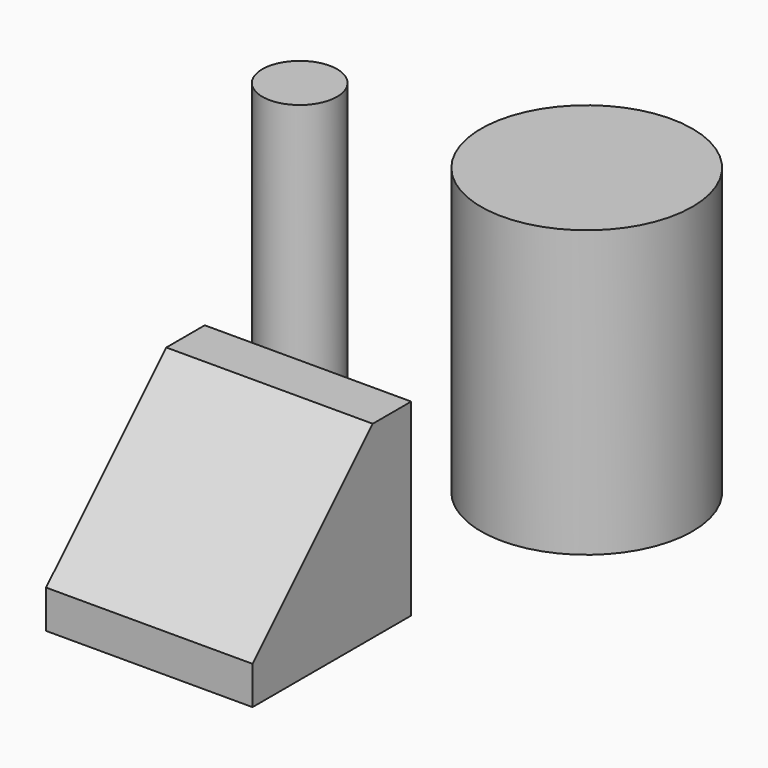
from build123d import *

# Parameters (mm, degrees)
F0_W          = 104.683742
F0_H          = 95.544599
F1_DEPTH      = 75.173438
F1_DEPTH_BACK = 25.4
F2_SIZE       = 76.2
F3_R          = 18.95495
F4_DEPTH      = 150.642723
F5_R          = 53.626068
F6_DEPTH      = 144.887626


with BuildPart() as f1:
    # F0 (on Front) → F1 (new body, two sides)
    with BuildSketch(Plane.XZ) as f1_sk:
        with Locations((0.838421, 9.704289)):
            Rectangle(F0_W, F0_H)
    extrude(amount=F1_DEPTH)
    extrude(f1_sk.sketch, amount=-F1_DEPTH_BACK)

    # F2
    f2_edges = [f1.edges().sort_by_distance(p)[0] for p in [
        (0.838421, -75.173438, 57.476588),
    ]]
    chamfer(f2_edges, length=F2_SIZE)


with BuildPart() as f4:
    # F3 (on Top) → F4 (new body)
    with BuildSketch(Plane.XY):
        with Locations((-40.163904, 71.423203)):
            Circle(F3_R)
    extrude(amount=F4_DEPTH)


with BuildPart() as f6:
    # F5 (on Top) → F6 (new body)
    with BuildSketch(Plane.XY):
        with Locations((87.101445, 94.256274)):
            Circle(F5_R)
    extrude(amount=F6_DEPTH)


solid = Compound([f1.part, f4.part, f6.part])
